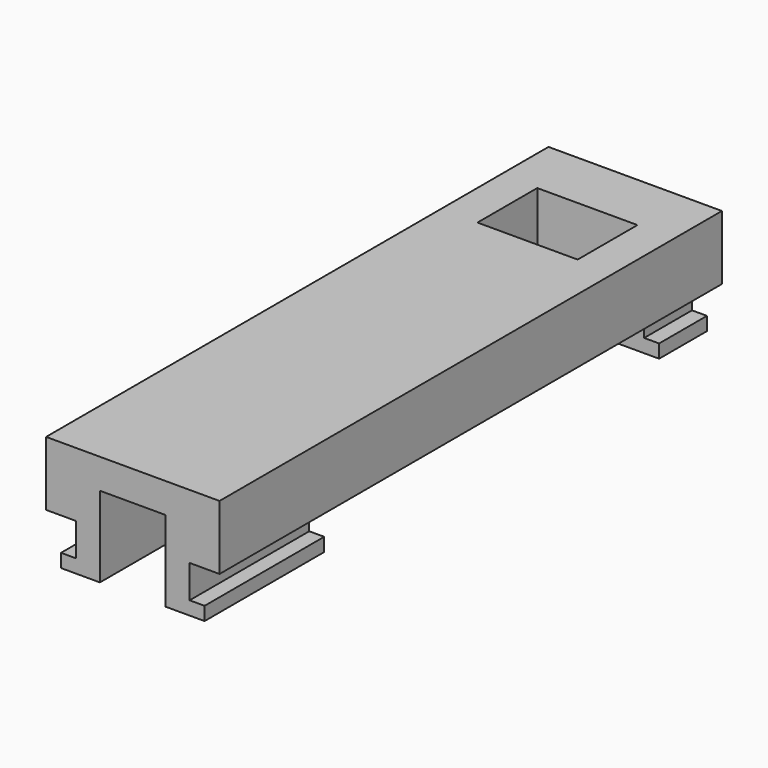
from build123d import *

# Parameters (mm, degrees)
PAD_DEPTH    = 4
SKETCH001_W  = 2.45
SKETCH001_H  = 4.3
PAD001_DEPTH = 5
PAD002_DEPTH = 23
PAD003_DEPTH = 10


with BuildPart() as part:
    # Sketch → Pad (new body)
    with BuildSketch(Plane.XZ):
        Polygon((0, 0), (4.8, 0), (4.8, 0.9), (3.8, 0.9), (3.8, 3.1), (5.8, 3.1), (5.8, 7.4), (0, 7.4), align=None)
    pad = extrude(amount=PAD_DEPTH)

    # Sketch001 → Pad001 (join)
    with BuildSketch(Plane.XZ.offset(4)):
        with Locations((4.575, 5.25)):
            Rectangle(SKETCH001_W, SKETCH001_H)
    pad001 = extrude(amount=PAD001_DEPTH)

    # Sketch002 → Pad002 (join)
    with BuildSketch(Plane.XZ.offset(9)):
        Polygon((5.8, 7.4), (0, 7.4), (0, 5.4), (3.35, 5.4), (3.35, 3.1), (5.8, 3.1), align=None)
    pad002 = extrude(amount=PAD002_DEPTH)

    # Sketch003 → Pad003 (join)
    with BuildSketch(Plane.XZ.offset(32)):
        Polygon((4.8, 0), (4.8, 0.9), (3.8, 0.9), (3.8, 3.1), (5.8, 3.1), (5.8, 7.4), (0, 7.4), (0, 5.4), (2.2, 5.4), (2.2, 0), align=None)
    pad003 = extrude(amount=PAD003_DEPTH)

    # Mirrored: Pad, Pad001, Pad002, Pad003 across Sketch V_Axis
    add(pad.mirror(Plane(origin=(0, 0, 0), x_dir=(0, -1, 0), z_dir=(1, 0, 0))))
    add(pad001.mirror(Plane(origin=(0, 0, 0), x_dir=(0, -1, 0), z_dir=(1, 0, 0))))
    add(pad002.mirror(Plane(origin=(0, 0, 0), x_dir=(0, -1, 0), z_dir=(1, 0, 0))))
    add(pad003.mirror(Plane(origin=(0, 0, 0), x_dir=(0, -1, 0), z_dir=(1, 0, 0))))


solid = part.part
